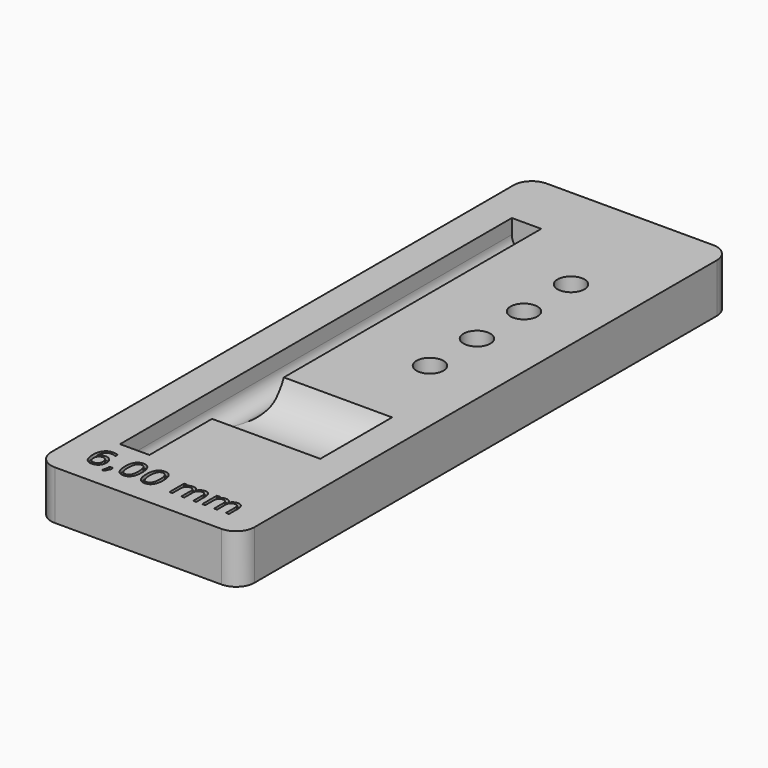
from build123d import *

# Parameters (mm, degrees)
PAD003_DEPTH    = 10
SKETCH011_R     = 2.75
POCKET003_DEPTH = 3
POCKET004_DEPTH = 1


with BuildPart() as part:
    # Sketch008 → Pad003 (new body)
    with BuildSketch(Plane.XY.offset(4.75)):
        with BuildLine():
            Line((17, 104.75), (-17, 104.75))
            ThreePointArc((-17, 104.75), (-19.65165, 103.65165), (-20.75, 101))
            Line((-20.75, 101), (-20.75, -17))
            ThreePointArc((-20.75, -17), (-19.65165, -19.65165), (-17, -20.75))
            Line((-17, -20.75), (17, -20.75))
            ThreePointArc((17, -20.75), (19.65165, -19.65165), (20.75, -17))
            Line((20.75, -17), (20.75, 101))
            ThreePointArc((20.75, 101), (19.65165, 103.65165), (17, 104.75))
        make_face()
    extrude(amount=PAD003_DEPTH)

    # SubtractivePipe001: sweep along a path in Sketch009
    with BuildLine(Plane.YZ) as subtractivepipe001_path:
        Line((-8, 10.75), (92, 10.75))
    # Sketch010 → SubtractivePipe001 (sweep, cut)
    with BuildSketch(Plane.XZ):
        with BuildLine():
            ThreePointArc((-7.895365, 25.492548), (-10.895365, 28.492548), (-13.895365, 25.492548))
            Line((-13.895365, 25.492548), (-13.895365, 11.75))
            ThreePointArc((-13.895365, 11.75), (-10.895365, 8.75), (-7.895365, 11.75))
            Line((-7.895365, 25.492548), (-7.895365, 11.75))
        make_face()
    sweep(path=subtractivepipe001_path.line, mode=Mode.SUBTRACT)

    # Sketch011 (on Face5 of SubtractivePipe001) → Pocket003 (cut)
    with BuildSketch(Plane.XY.offset(14.75)):
        with Locations((7.783098, 80)):
            Circle(SKETCH011_R)
        with Locations((7.783098, 68)):
            Circle(SKETCH011_R)
        with Locations((7.783098, 56)):
            Circle(SKETCH011_R)
        with Locations((7.783098, 44)):
            Circle(SKETCH011_R)
    extrude(amount=-POCKET003_DEPTH, mode=Mode.SUBTRACT)

    # SubtractivePipe002: sweep along a path in Sketch014
    with BuildLine(Plane.XY.offset(14.75)) as subtractivepipe002_path:
        Line((-10.793409, 35.635052), (14.206591, 35.635052))
    # Sketch013 → SubtractivePipe002 (sweep, cut)
    with BuildSketch(Plane.YZ):
        with BuildLine():
            ThreePointArc((27.144974, 28.443335), (17.144974, 38.443335), (7.144974, 28.443335))
            Line((7.144974, 28.443335), (7.144974, 18.75))
            ThreePointArc((7.144974, 18.75), (17.144974, 8.75), (27.144974, 18.75))
            Line((27.144974, 28.443335), (27.144974, 18.75))
        make_face()
    sweep(path=subtractivepipe002_path.line, mode=Mode.SUBTRACT)

    # Sketch015 → Pocket004 (cut)
    with BuildSketch(Plane.XY.offset(15)):
        with BuildLine():
            Line((-11.872768, -11.114286), (-11.872768, -11.728571))
            add(Edge.make_bspline(
                [(-11.872768, -11.728571), (-12.127232, -11.610491), (-12.38683, -11.548214)],
                knots=[0, 0, 0, 1, 1, 1], degree=2))
            add(Edge.make_bspline(
                [(-12.38683, -11.548214), (-12.646205, -11.485714), (-12.90067, -11.485714)],
                knots=[0, 0, 0, 1, 1, 1], degree=2))
            add(Edge.make_bspline(
                [(-12.90067, -11.485714), (-13.570312, -11.485714), (-13.923661, -11.939063)],
                knots=[0, 0, 0, 1, 1, 1], degree=2))
            add(Edge.make_bspline(
                [(-13.923661, -11.939063), (-14.276786, -12.392411), (-14.327009, -13.309375)],
                knots=[0, 0, 0, 1, 1, 1], degree=2))
            add(Edge.make_bspline(
                [(-14.327009, -13.309375), (-14.129464, -13.014732), (-13.831473, -12.857366)],
                knots=[0, 0, 0, 1, 1, 1], degree=2))
            add(Edge.make_bspline(
                [(-13.831473, -12.857366), (-13.533482, -12.7), (-13.175223, -12.7)],
                knots=[0, 0, 0, 1, 1, 1], degree=2))
            add(Edge.make_bspline(
                [(-13.175223, -12.7), (-12.421875, -12.7), (-11.985045, -13.15692)],
                knots=[0, 0, 0, 1, 1, 1], degree=2))
            add(Edge.make_bspline(
                [(-11.985045, -13.15692), (-11.547991, -13.613616), (-11.547991, -14.4)],
                knots=[0, 0, 0, 1, 1, 1], degree=2))
            add(Edge.make_bspline(
                [(-11.547991, -14.4), (-11.547991, -15.169643), (-12.003348, -15.634821)],
                knots=[0, 0, 0, 1, 1, 1], degree=2))
            add(Edge.make_bspline(
                [(-12.003348, -15.634821), (-12.458705, -16.1), (-13.215402, -16.1)],
                knots=[0, 0, 0, 1, 1, 1], degree=2))
            add(Edge.make_bspline(
                [(-13.215402, -16.1), (-14.082589, -16.1), (-14.541295, -15.435491)],
                knots=[0, 0, 0, 1, 1, 1], degree=2))
            add(Edge.make_bspline(
                [(-14.541295, -15.435491), (-15, -14.770982), (-15, -13.508705)],
                knots=[0, 0, 0, 1, 1, 1], degree=2))
            add(Edge.make_bspline(
                [(-15, -13.508705), (-15, -12.323661), (-14.4375, -11.618973)],
                knots=[0, 0, 0, 1, 1, 1], degree=2))
            add(Edge.make_bspline(
                [(-14.4375, -11.618973), (-13.875, -10.914286), (-12.927455, -10.914286)],
                knots=[0, 0, 0, 1, 1, 1], degree=2))
            add(Edge.make_bspline(
                [(-12.927455, -10.914286), (-12.672991, -10.914286), (-12.413616, -10.964286)],
                knots=[0, 0, 0, 1, 1, 1], degree=2))
            add(Edge.make_bspline(
                [(-12.413616, -10.964286), (-12.154018, -11.014286), (-11.872768, -11.114286)],
                knots=[0, 0, 0, 1, 1, 1], degree=2))
        make_face()
        with BuildLine():
            add(Edge.make_bspline(
                [(-13.215402, -13.242857), (-13.670759, -13.242857), (-13.937053, -13.552232)],
                knots=[0, 0, 0, 1, 1, 1], degree=2))
            add(Edge.make_bspline(
                [(-13.937053, -13.552232), (-14.203125, -13.861384), (-14.203125, -14.4)],
                knots=[0, 0, 0, 1, 1, 1], degree=2))
            add(Edge.make_bspline(
                [(-14.203125, -14.4), (-14.203125, -14.935268), (-13.937053, -15.246205)],
                knots=[0, 0, 0, 1, 1, 1], degree=2))
            add(Edge.make_bspline(
                [(-13.937053, -15.246205), (-13.670759, -15.557143), (-13.215402, -15.557143)],
                knots=[0, 0, 0, 1, 1, 1], degree=2))
            add(Edge.make_bspline(
                [(-13.215402, -15.557143), (-12.760045, -15.557143), (-12.493973, -15.246205)],
                knots=[0, 0, 0, 1, 1, 1], degree=2))
            add(Edge.make_bspline(
                [(-12.493973, -15.246205), (-12.227678, -14.935268), (-12.227678, -14.4)],
                knots=[0, 0, 0, 1, 1, 1], degree=2))
            add(Edge.make_bspline(
                [(-12.227678, -14.4), (-12.227678, -13.861384), (-12.493973, -13.552232)],
                knots=[0, 0, 0, 1, 1, 1], degree=2))
            add(Edge.make_bspline(
                [(-12.493973, -13.552232), (-12.760045, -13.242857), (-13.215402, -13.242857)],
                knots=[0, 0, 0, 1, 1, 1], degree=2))
        make_face(mode=Mode.SUBTRACT)
        Polygon((-10.31808, -15.142857), (-9.611607, -15.142857), (-9.611607, -15.717187), (-10.160714, -16.785714), (-10.592634, -16.785714), (-10.31808, -15.717187), align=None)
        with BuildLine():
            add(Edge.make_bspline(
                [(-6.75625, -10.914286), (-5.915848, -10.914286), (-5.472321, -11.578795)],
                knots=[0, 0, 0, 1, 1, 1], degree=2))
            add(Edge.make_bspline(
                [(-5.472321, -11.578795), (-5.028571, -12.243304), (-5.028571, -13.508705)],
                knots=[0, 0, 0, 1, 1, 1], degree=2))
            add(Edge.make_bspline(
                [(-5.028571, -13.508705), (-5.028571, -14.770982), (-5.472321, -15.435491)],
                knots=[0, 0, 0, 1, 1, 1], degree=2))
            add(Edge.make_bspline(
                [(-5.472321, -15.435491), (-5.915848, -16.1), (-6.75625, -16.1)],
                knots=[0, 0, 0, 1, 1, 1], degree=2))
            add(Edge.make_bspline(
                [(-6.75625, -16.1), (-7.596652, -16.1), (-8.040402, -15.435491)],
                knots=[0, 0, 0, 1, 1, 1], degree=2))
            add(Edge.make_bspline(
                [(-8.040402, -15.435491), (-8.483928, -14.770982), (-8.483928, -13.508705)],
                knots=[0, 0, 0, 1, 1, 1], degree=2))
            add(Edge.make_bspline(
                [(-8.483928, -13.508705), (-8.483928, -12.243304), (-8.040402, -11.578795)],
                knots=[0, 0, 0, 1, 1, 1], degree=2))
            add(Edge.make_bspline(
                [(-8.040402, -11.578795), (-7.596652, -10.914286), (-6.75625, -10.914286)],
                knots=[0, 0, 0, 1, 1, 1], degree=2))
        make_face()
        with BuildLine():
            add(Edge.make_bspline(
                [(-6.75625, -11.457143), (-7.278571, -11.457143), (-7.541518, -11.969196)],
                knots=[0, 0, 0, 1, 1, 1], degree=2))
            add(Edge.make_bspline(
                [(-7.541518, -11.969196), (-7.804241, -12.48125), (-7.804241, -13.508705)],
                knots=[0, 0, 0, 1, 1, 1], degree=2))
            add(Edge.make_bspline(
                [(-7.804241, -13.508705), (-7.804241, -14.533036), (-7.541518, -15.045089)],
                knots=[0, 0, 0, 1, 1, 1], degree=2))
            add(Edge.make_bspline(
                [(-7.541518, -15.045089), (-7.278571, -15.557143), (-6.75625, -15.557143)],
                knots=[0, 0, 0, 1, 1, 1], degree=2))
            add(Edge.make_bspline(
                [(-6.75625, -15.557143), (-6.23058, -15.557143), (-5.967857, -15.045089)],
                knots=[0, 0, 0, 1, 1, 1], degree=2))
            add(Edge.make_bspline(
                [(-5.967857, -15.045089), (-5.704911, -14.533036), (-5.704911, -13.508705)],
                knots=[0, 0, 0, 1, 1, 1], degree=2))
            add(Edge.make_bspline(
                [(-5.704911, -13.508705), (-5.704911, -12.48125), (-5.967857, -11.969196)],
                knots=[0, 0, 0, 1, 1, 1], degree=2))
            add(Edge.make_bspline(
                [(-5.967857, -11.969196), (-6.23058, -11.457143), (-6.75625, -11.457143)],
                knots=[0, 0, 0, 1, 1, 1], degree=2))
        make_face(mode=Mode.SUBTRACT)
        with BuildLine():
            add(Edge.make_bspline(
                [(-2.399107, -10.914286), (-1.558705, -10.914286), (-1.115178, -11.578795)],
                knots=[0, 0, 0, 1, 1, 1], degree=2))
            add(Edge.make_bspline(
                [(-1.115178, -11.578795), (-0.671428, -12.243304), (-0.671428, -13.508705)],
                knots=[0, 0, 0, 1, 1, 1], degree=2))
            add(Edge.make_bspline(
                [(-0.671428, -13.508705), (-0.671428, -14.770982), (-1.115178, -15.435491)],
                knots=[0, 0, 0, 1, 1, 1], degree=2))
            add(Edge.make_bspline(
                [(-1.115178, -15.435491), (-1.558705, -16.1), (-2.399107, -16.1)],
                knots=[0, 0, 0, 1, 1, 1], degree=2))
            add(Edge.make_bspline(
                [(-2.399107, -16.1), (-3.239509, -16.1), (-3.683259, -15.435491)],
                knots=[0, 0, 0, 1, 1, 1], degree=2))
            add(Edge.make_bspline(
                [(-3.683259, -15.435491), (-4.126786, -14.770982), (-4.126786, -13.508705)],
                knots=[0, 0, 0, 1, 1, 1], degree=2))
            add(Edge.make_bspline(
                [(-4.126786, -13.508705), (-4.126786, -12.243304), (-3.683259, -11.578795)],
                knots=[0, 0, 0, 1, 1, 1], degree=2))
            add(Edge.make_bspline(
                [(-3.683259, -11.578795), (-3.239509, -10.914286), (-2.399107, -10.914286)],
                knots=[0, 0, 0, 1, 1, 1], degree=2))
        make_face()
        with BuildLine():
            add(Edge.make_bspline(
                [(-2.399107, -11.457143), (-2.921428, -11.457143), (-3.184375, -11.969196)],
                knots=[0, 0, 0, 1, 1, 1], degree=2))
            add(Edge.make_bspline(
                [(-3.184375, -11.969196), (-3.447098, -12.48125), (-3.447098, -13.508705)],
                knots=[0, 0, 0, 1, 1, 1], degree=2))
            add(Edge.make_bspline(
                [(-3.447098, -13.508705), (-3.447098, -14.533036), (-3.184375, -15.045089)],
                knots=[0, 0, 0, 1, 1, 1], degree=2))
            add(Edge.make_bspline(
                [(-3.184375, -15.045089), (-2.921428, -15.557143), (-2.399107, -15.557143)],
                knots=[0, 0, 0, 1, 1, 1], degree=2))
            add(Edge.make_bspline(
                [(-2.399107, -15.557143), (-1.873437, -15.557143), (-1.610714, -15.045089)],
                knots=[0, 0, 0, 1, 1, 1], degree=2))
            add(Edge.make_bspline(
                [(-1.610714, -15.045089), (-1.347768, -14.533036), (-1.347768, -13.508705)],
                knots=[0, 0, 0, 1, 1, 1], degree=2))
            add(Edge.make_bspline(
                [(-1.347768, -13.508705), (-1.347768, -12.48125), (-1.610714, -11.969196)],
                knots=[0, 0, 0, 1, 1, 1], degree=2))
            add(Edge.make_bspline(
                [(-1.610714, -11.969196), (-1.873437, -11.457143), (-2.399107, -11.457143)],
                knots=[0, 0, 0, 1, 1, 1], degree=2))
        make_face(mode=Mode.SUBTRACT)
        with BuildLine():
            add(Edge.make_bspline(
                [(5.529911, -12.966071), (5.760938, -12.551562), (6.082366, -12.354464)],
                knots=[0, 0, 0, 1, 1, 1], degree=2))
            add(Edge.make_bspline(
                [(6.082366, -12.354464), (6.403795, -12.157143), (6.839063, -12.157143)],
                knots=[0, 0, 0, 1, 1, 1], degree=2))
            add(Edge.make_bspline(
                [(6.839063, -12.157143), (7.425, -12.157143), (7.74308, -12.567187)],
                knots=[0, 0, 0, 1, 1, 1], degree=2))
            add(Edge.make_bspline(
                [(7.74308, -12.567187), (8.061161, -12.977232), (8.061161, -13.733705)],
                knots=[0, 0, 0, 1, 1, 1], degree=2))
            Line((8.061161, -13.733705), (8.061161, -16))
            Line((8.061161, -16), (7.441741, -16))
            Line((7.441741, -16), (7.441741, -13.753795))
            add(Edge.make_bspline(
                [(7.441741, -13.753795), (7.441741, -13.218527), (7.250893, -12.959375)],
                knots=[0, 0, 0, 1, 1, 1], degree=2))
            add(Edge.make_bspline(
                [(7.250893, -12.959375), (7.060045, -12.7), (6.668304, -12.7)],
                knots=[0, 0, 0, 1, 1, 1], degree=2))
            add(Edge.make_bspline(
                [(6.668304, -12.7), (6.189509, -12.7), (5.911607, -13.016071)],
                knots=[0, 0, 0, 1, 1, 1], degree=2))
            add(Edge.make_bspline(
                [(5.911607, -13.016071), (5.633705, -13.332143), (5.633705, -13.877902)],
                knots=[0, 0, 0, 1, 1, 1], degree=2))
            Line((5.633705, -13.877902), (5.633705, -16))
            Line((5.633705, -16), (5.014286, -16))
            Line((5.014286, -16), (5.014286, -13.753795))
            add(Edge.make_bspline(
                [(5.014286, -13.753795), (5.014286, -13.215179), (4.823438, -12.957589)],
                knots=[0, 0, 0, 1, 1, 1], degree=2))
            add(Edge.make_bspline(
                [(4.823438, -12.957589), (4.632589, -12.7), (4.234152, -12.7)],
                knots=[0, 0, 0, 1, 1, 1], degree=2))
            add(Edge.make_bspline(
                [(4.234152, -12.7), (3.762054, -12.7), (3.484152, -13.017857)],
                knots=[0, 0, 0, 1, 1, 1], degree=2))
            add(Edge.make_bspline(
                [(3.484152, -13.017857), (3.20625, -13.335491), (3.20625, -13.877902)],
                knots=[0, 0, 0, 1, 1, 1], degree=2))
            Line((3.20625, -13.877902), (3.20625, -16))
            Line((3.20625, -16), (2.58683, -16))
            Line((2.58683, -16), (2.58683, -12.242857))
            Line((2.58683, -12.242857), (3.20625, -12.242857))
            Line((3.20625, -12.242857), (3.20625, -12.828571))
            add(Edge.make_bspline(
                [(3.20625, -12.828571), (3.417188, -12.484598), (3.71183, -12.320982)],
                knots=[0, 0, 0, 1, 1, 1], degree=2))
            add(Edge.make_bspline(
                [(3.71183, -12.320982), (4.006473, -12.157143), (4.411607, -12.157143)],
                knots=[0, 0, 0, 1, 1, 1], degree=2))
            add(Edge.make_bspline(
                [(4.411607, -12.157143), (4.820089, -12.157143), (5.10625, -12.364509)],
                knots=[0, 0, 0, 1, 1, 1], degree=2))
            add(Edge.make_bspline(
                [(5.10625, -12.364509), (5.392634, -12.571652), (5.529911, -12.966071)],
                knots=[0, 0, 0, 1, 1, 1], degree=2))
        make_face()
        with BuildLine():
            add(Edge.make_bspline(
                [(12.215625, -12.966071), (12.446652, -12.551562), (12.76808, -12.354464)],
                knots=[0, 0, 0, 1, 1, 1], degree=2))
            add(Edge.make_bspline(
                [(12.76808, -12.354464), (13.089509, -12.157143), (13.524777, -12.157143)],
                knots=[0, 0, 0, 1, 1, 1], degree=2))
            add(Edge.make_bspline(
                [(13.524777, -12.157143), (14.110714, -12.157143), (14.428795, -12.567187)],
                knots=[0, 0, 0, 1, 1, 1], degree=2))
            add(Edge.make_bspline(
                [(14.428795, -12.567187), (14.746875, -12.977232), (14.746875, -13.733705)],
                knots=[0, 0, 0, 1, 1, 1], degree=2))
            Line((14.746875, -13.733705), (14.746875, -16))
            Line((14.746875, -16), (14.127455, -16))
            Line((14.127455, -16), (14.127455, -13.753795))
            add(Edge.make_bspline(
                [(14.127455, -13.753795), (14.127455, -13.218527), (13.936607, -12.959375)],
                knots=[0, 0, 0, 1, 1, 1], degree=2))
            add(Edge.make_bspline(
                [(13.936607, -12.959375), (13.745759, -12.7), (13.354018, -12.7)],
                knots=[0, 0, 0, 1, 1, 1], degree=2))
            add(Edge.make_bspline(
                [(13.354018, -12.7), (12.875223, -12.7), (12.597322, -13.016071)],
                knots=[0, 0, 0, 1, 1, 1], degree=2))
            add(Edge.make_bspline(
                [(12.597322, -13.016071), (12.31942, -13.332143), (12.31942, -13.877902)],
                knots=[0, 0, 0, 1, 1, 1], degree=2))
            Line((12.31942, -13.877902), (12.31942, -16))
            Line((12.31942, -16), (11.7, -16))
            Line((11.7, -16), (11.7, -13.753795))
            add(Edge.make_bspline(
                [(11.7, -13.753795), (11.7, -13.215179), (11.509152, -12.957589)],
                knots=[0, 0, 0, 1, 1, 1], degree=2))
            add(Edge.make_bspline(
                [(11.509152, -12.957589), (11.318304, -12.7), (10.919866, -12.7)],
                knots=[0, 0, 0, 1, 1, 1], degree=2))
            add(Edge.make_bspline(
                [(10.919866, -12.7), (10.447768, -12.7), (10.169866, -13.017857)],
                knots=[0, 0, 0, 1, 1, 1], degree=2))
            add(Edge.make_bspline(
                [(10.169866, -13.017857), (9.891964, -13.335491), (9.891964, -13.877902)],
                knots=[0, 0, 0, 1, 1, 1], degree=2))
            Line((9.891964, -13.877902), (9.891964, -16))
            Line((9.891964, -16), (9.272545, -16))
            Line((9.272545, -16), (9.272545, -12.242857))
            Line((9.272545, -12.242857), (9.891964, -12.242857))
            Line((9.891964, -12.242857), (9.891964, -12.828571))
            add(Edge.make_bspline(
                [(9.891964, -12.828571), (10.102902, -12.484598), (10.397545, -12.320982)],
                knots=[0, 0, 0, 1, 1, 1], degree=2))
            add(Edge.make_bspline(
                [(10.397545, -12.320982), (10.692188, -12.157143), (11.097322, -12.157143)],
                knots=[0, 0, 0, 1, 1, 1], degree=2))
            add(Edge.make_bspline(
                [(11.097322, -12.157143), (11.505804, -12.157143), (11.791964, -12.364509)],
                knots=[0, 0, 0, 1, 1, 1], degree=2))
            add(Edge.make_bspline(
                [(11.791964, -12.364509), (12.078348, -12.571652), (12.215625, -12.966071)],
                knots=[0, 0, 0, 1, 1, 1], degree=2))
        make_face()
    extrude(amount=-POCKET004_DEPTH, mode=Mode.SUBTRACT)


solid = part.part
